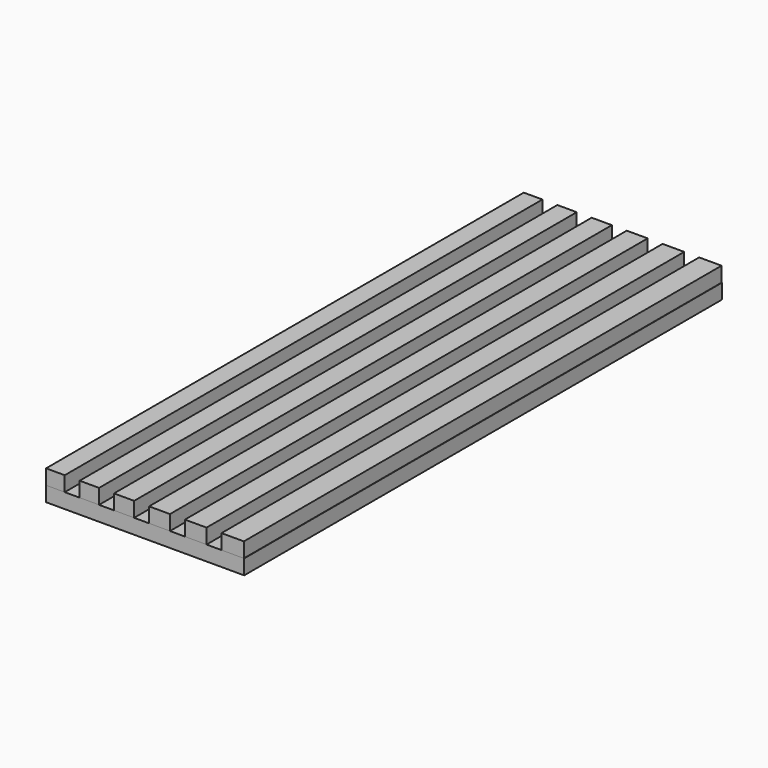
from build123d import *

# Parameters (mm, degrees)
F0_W     = 63.5
F0_H     = 2032
F0_W_2   = 76.2
F0_W_3   = 73.66
F0_W_4   = 71.12
F0_W_5   = 68.58
F0_W_6   = 66.04
F1_DEPTH = 50.8
F2_W     = 674.143255
F2_H     = 2032.291412
F3_DEPTH = 50.8


with BuildPart() as f1:
    # F0 (on Top) → F1 (new body)
    with BuildSketch(Plane.XY):
        with Locations((31.75, 1016)):
            Rectangle(F0_W, F0_H)
        with Locations((635, 1016)):
            Rectangle(F0_W_2, F0_H)
        with Locations((509.27, 1016)):
            Rectangle(F0_W_3, F0_H)
        with Locations((386.08, 1016)):
            Rectangle(F0_W_4, F0_H)
        with Locations((265.43, 1016)):
            Rectangle(F0_W_5, F0_H)
        with Locations((147.32, 1016)):
            Rectangle(F0_W_6, F0_H)
    extrude(amount=F1_DEPTH)


with BuildPart() as f3:
    # F2 (on Top) → F3 (new body)
    with BuildSketch(Plane.XY):
        with Locations((337.071627, 1016.145706)):
            Rectangle(F2_W, F2_H)
    extrude(amount=-F3_DEPTH)


solid = Compound([f1.part, f3.part])
